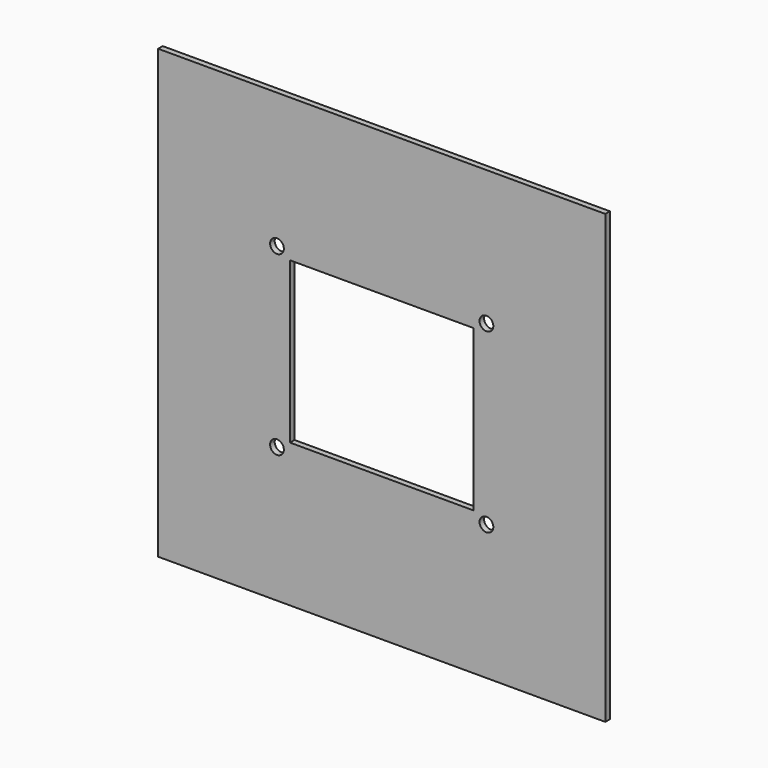
from build123d import *

# Parameters (mm, degrees)
F0_W     = 123.825
F0_H     = 123.825
F1_DEPTH = 1.5875
F2_R     = 1.905
F2_W     = 50.8
F2_H     = 44.45
F3_DEPTH = 25.4


with BuildPart() as f1:
    # F0 (on Front) → F1 (new body)
    with BuildSketch(Plane.XZ):
        Rectangle(F0_W, F0_H)
    extrude(amount=-F1_DEPTH)

    # F2 (on face) → F3 (cut)
    with BuildSketch(Plane.XZ):
        with Locations((28.9941, 24.4983)):
            Circle(F2_R)
        with Locations((28.9941, -24.4983)):
            Circle(F2_R)
        with Locations((-28.9941, -24.4983)):
            Circle(F2_R)
        with Locations((-28.9941, 24.4983)):
            Circle(F2_R)
        Rectangle(F2_W, F2_H)
    extrude(amount=-F3_DEPTH, mode=Mode.SUBTRACT)


solid = f1.part
